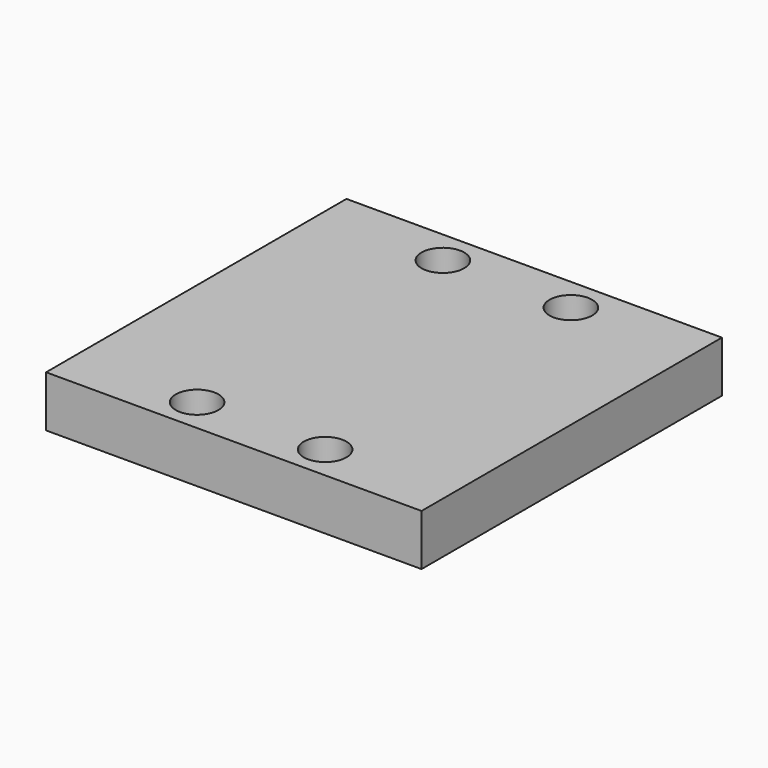
from build123d import *

# Parameters (mm, degrees)
CYLINDER003_R     = 2.5
CYLINDER003_DEPTH = 10
CYLINDER002_R     = 2.5
CYLINDER002_DEPTH = 10
CYLINDER001_R     = 2.5
CYLINDER001_DEPTH = 10
CYLINDER_R        = 2.5
CYLINDER_DEPTH    = 10
BOX_W             = 44
BOX_H             = 44
BOX_DEPTH         = 6


with BuildPart() as cylinder003:
    # Cylinder003 → Cylinder003 (new body)
    with BuildSketch(Plane(origin=(29.5, 40, 0), x_dir=(1, 0, 0), z_dir=(0, 0, 1))):
        Circle(CYLINDER003_R)
    extrude(amount=CYLINDER003_DEPTH)


with BuildPart() as cylinder002:
    # Cylinder002 → Cylinder002 (new body)
    with BuildSketch(Plane(origin=(14.5, 40, 0), x_dir=(1, 0, 0), z_dir=(0, 0, 1))):
        Circle(CYLINDER002_R)
    extrude(amount=CYLINDER002_DEPTH)


with BuildPart() as cylinder001:
    # Cylinder001 → Cylinder001 (new body)
    with BuildSketch(Plane(origin=(29.5, 4, 0), x_dir=(1, 0, 0), z_dir=(0, 0, 1))):
        Circle(CYLINDER001_R)
    extrude(amount=CYLINDER001_DEPTH)


with BuildPart() as cylinder:
    # Cylinder → Cylinder (new body)
    with BuildSketch(Plane(origin=(14.5, 4, 0), x_dir=(1, 0, 0), z_dir=(0, 0, 1))):
        Circle(CYLINDER_R)
    extrude(amount=CYLINDER_DEPTH)


with BuildPart() as cut003:
    # Box → Box (new body)
    with BuildSketch(Plane.XY):
        with Locations((22, 22)):
            Rectangle(BOX_W, BOX_H)
    extrude(amount=BOX_DEPTH)

    # Cut: cut Cylinder
    add(cylinder.part, mode=Mode.SUBTRACT)

    # Cut001: cut Cylinder001
    add(cylinder001.part, mode=Mode.SUBTRACT)

    # Cut002: cut Cylinder002
    add(cylinder002.part, mode=Mode.SUBTRACT)

    # Cut003: cut Cylinder003
    add(cylinder003.part, mode=Mode.SUBTRACT)


solid = cut003.part
